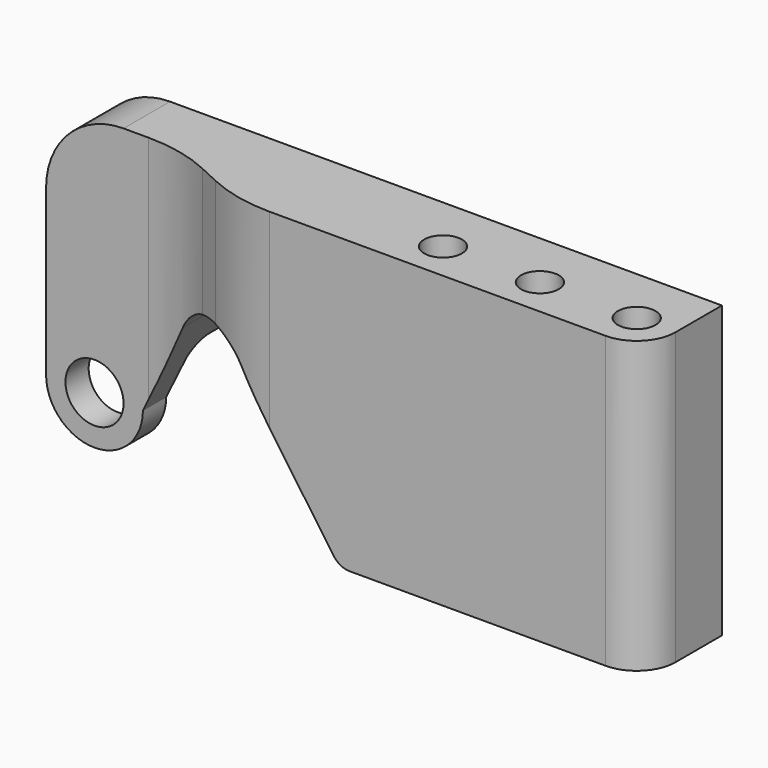
from build123d import *

# Parameters (mm, degrees)
F0_R           = 7.5
F1_DEPTH       = 25
F2_W           = 7.5
F2_H           = 45
F3_DEPTH       = 25
F5_D           = 5.5
F5_CBORE_D     = 9.75
F5_CBORE_DEPTH = 70
F6_R           = 20
F7_R           = 5
F8_R           = 10
F9_R           = 5
F11_DEPTH      = 100
F12_R          = 40


with BuildPart() as f1:
    # F0 (on Front) → F1 (new body)
    with BuildSketch(Plane.XZ):
        with BuildLine():
            Line((45.239401, 24.669705), (71.265909, -12.5))
            Line((71.265909, -12.5), (150, -12.5))
            Line((150, -12.5), (150, 62.5))
            Line((150, 62.5), (-12.5, 62.5))
            Line((-12.5, 62.5), (-12.5, 0))
            ThreePointArc((-12.5, 0), (0, -12.5), (12.5, 0))
            Line((12.5, 0), (23.776091, 23.002169))
            ThreePointArc((23.776091, 23.002169), (34.031763, 29.962444), (45.239401, 24.669705))
        make_face()
        Circle(F0_R, mode=Mode.SUBTRACT)
    extrude(amount=F1_DEPTH)

    # F2 (on Right) → F3 (cut, symmetric)
    with BuildSketch(Plane.YZ):
        with Locations((-3.75, -7.5)):
            Rectangle(F2_W, F2_H)
    extrude(amount=F3_DEPTH, both=True, mode=Mode.SUBTRACT)

    # F5 (through all)
    with Locations(Plane.XY.offset(62.5)):
        with Locations((140, -15), (115, -15), (90, -15)):
            CounterBoreHole(F5_D / 2, F5_CBORE_D / 2, F5_CBORE_DEPTH)

    # F6
    f6_edges = [f1.edges().sort_by_distance(p)[0] for p in [
        (-12.5, -12.5, 62.5),
    ]]
    fillet(f6_edges, radius=F6_R)

    # F7
    f7_edges = [f1.edges().sort_by_distance(p)[0] for p in [
        (3.676639, -7.5, 15),
    ]]
    fillet(f7_edges, radius=F7_R)

    # F8
    f8_edges = [f1.edges().sort_by_distance(p)[0] for p in [
        (150, -25, 25),
    ]]
    fillet(f8_edges, radius=F8_R)

    # F9
    f9_edges = [f1.edges().sort_by_distance(p)[0] for p in [
        (71.265909, -12.5, -12.5),
    ]]
    fillet(f9_edges, radius=F9_R)

    # F10 (on Top) → F11 (cut, symmetric)
    with BuildSketch(Plane.XY):
        Polygon((22.832396, -15), (-25, -15), (-25, -30), (55, -30), align=None)
    extrude(amount=F11_DEPTH, both=True, mode=Mode.SUBTRACT)

    # F12
    f12_edges = [f1.edges().sort_by_distance(p)[0] for p in [
        (22.832396, -15, 41.78856),
        (44.277465, -25, 44.188634),
    ]]
    fillet(f12_edges, radius=F12_R)


solid = f1.part
